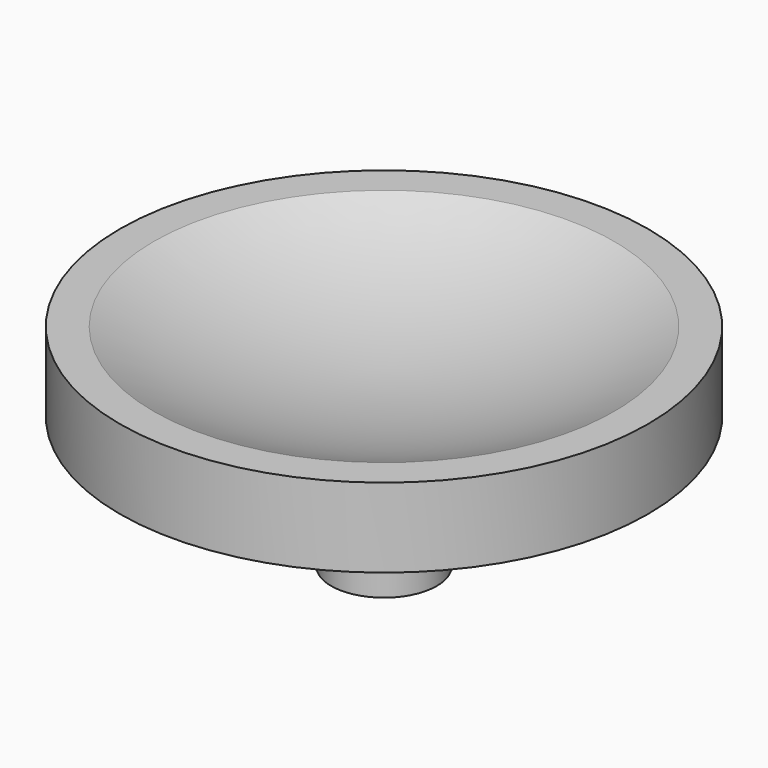
from build123d import *

# Parameters (mm, degrees)
F0_R     = 10
F1_DEPTH = 3
F4_R     = 2
F5_DEPTH = 5


with BuildPart() as f1:
    # F0 (on Top) → F1 (new body)
    with BuildSketch(Plane.XY):
        Circle(F0_R)
    extrude(amount=F1_DEPTH)

    # F2 (on Front) → F3 (revolve, cut)
    with BuildSketch(Plane.XZ):
        with BuildLine():
            Line((0, 1), (0, 41))
            ThreePointArc((0, 41), (-20, 21), (0, 1))
        make_face()
    revolve(axis=Axis((0, 0, 27.434054), (0, 0, -1)), mode=Mode.SUBTRACT)

    # F4 (on face) → F5 (join)
    with BuildSketch(Plane(origin=(0, 0, 0), x_dir=(1, 0, 0), z_dir=(0, 0, -1))):
        Circle(F4_R)
    extrude(amount=F5_DEPTH)


solid = f1.part
